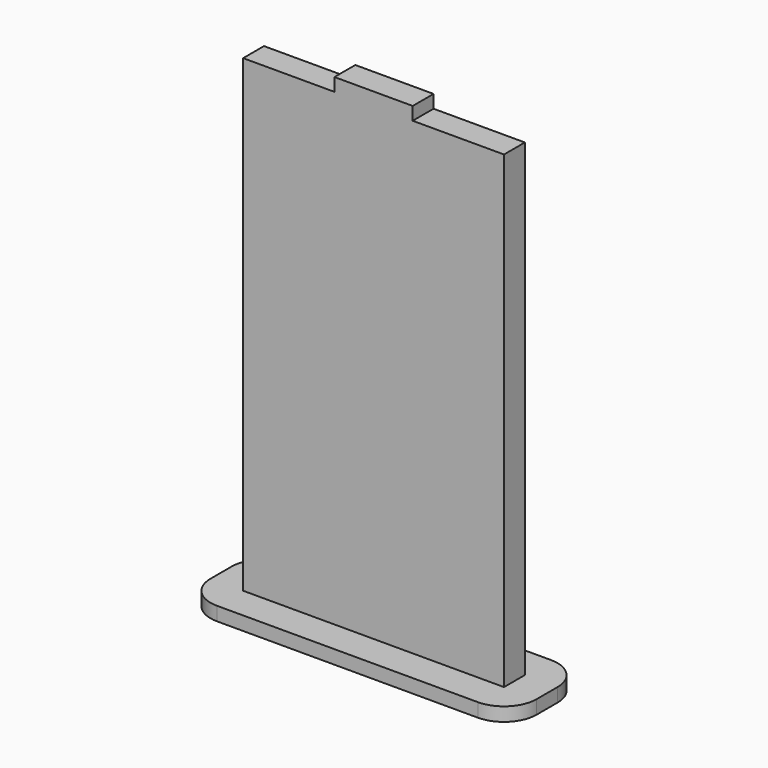
from build123d import *

# Parameters (mm, degrees)
F2_DEPTH = 4
F3_W     = 50
F3_H     = 14
F4_DEPTH = 2.1
F5_R     = 5


with BuildPart() as f2:
    # F1 (on Front) → F2 (new body)
    with BuildSketch(Plane.XZ):
        Polygon((-20, 0), (20, 0), (20, 74), (6, 74), (6, 76), (-6, 76), (-6, 74), (-20, 74), align=None)
    extrude(amount=F2_DEPTH)

    # F3 (on Top) → F4 (join)
    with BuildSketch(Plane.XY):
        with Locations((0, -2)):
            Rectangle(F3_W, F3_H)
    extrude(amount=F4_DEPTH)

    # F5
    f5_edges = [f2.edges().sort_by_distance(p)[0] for p in [
        (-25, -9, 1.05),
        (25, -9, 1.05),
        (25, 5, 1.05),
        (-25, 5, 1.05),
    ]]
    fillet(f5_edges, radius=F5_R)


solid = f2.part
